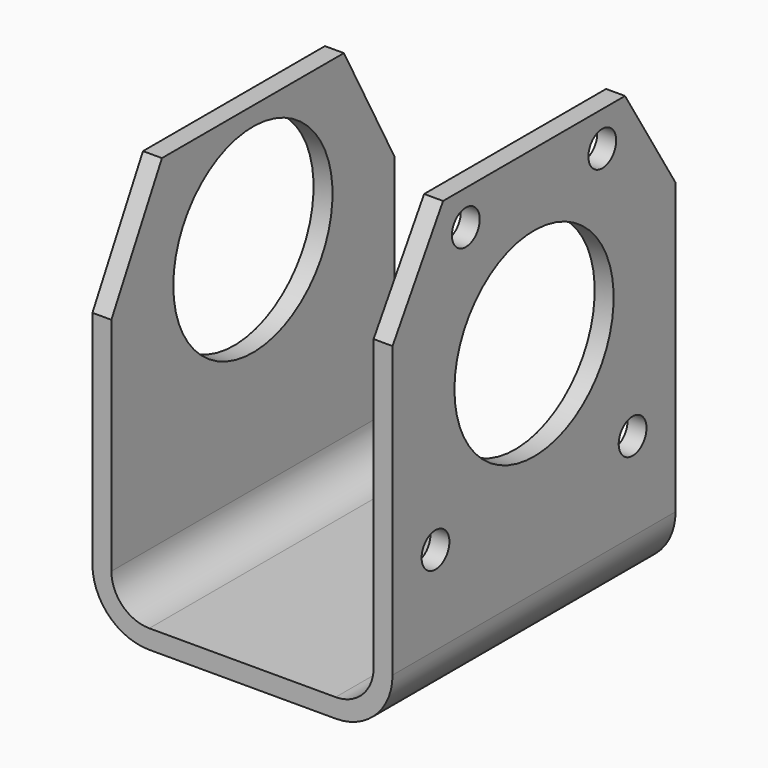
from build123d import *

# Parameters (mm, degrees)
F0_W      = 12
F0_H      = 238
F0_H_2    = 12
F0_W_2    = 166
F0_H_3    = 272
F1_DEPTH  = 224
F2_R      = 24
F3_R      = 36
F5_DEPTH  = 12
F7_DEPTH  = 12
F8_R      = 63
F9_DEPTH  = 190
F10_R     = 11
F11_DEPTH = 25


with BuildPart() as f1:
    # F0 (on Front) → F1 (new body)
    with BuildSketch(Plane.XZ):
        with Locations((-29.668833, 69.198049)):
            Rectangle(F0_W, F0_H)
        with Locations((-29.668833, -55.801951)):
            Rectangle(F0_W, F0_H_2)
        with Locations((59.331167, -55.801951)):
            Rectangle(F0_W_2, F0_H_2)
        with Locations((148.331167, 86.198049)):
            Rectangle(F0_W, F0_H_3)
        with Locations((148.331167, -55.801951)):
            Rectangle(F0_W, F0_H_2)
    extrude(amount=F1_DEPTH)

    # F2
    f2_edges = [f1.edges().sort_by_distance(p)[0] for p in [
        (-23.668833, -112, -49.801951),
        (142.331167, -112, -49.801951),
    ]]
    fillet(f2_edges, radius=F2_R)

    # F3
    f3_edges = [f1.edges().sort_by_distance(p)[0] for p in [
        (154.331167, -112, -61.801951),
        (-35.668833, -112, -61.801951),
    ]]
    fillet(f3_edges, radius=F3_R)

    # F4 (on face) → F5 (cut)
    with BuildSketch(Plane(origin=(-35.668833, 0, 0), x_dir=(0, -1, 0), z_dir=(-1, 0, 0))):
        Polygon((0, 114.333307), (40, 188.198049), (0, 188.198049), align=None)
        Polygon((224, 188.198049), (184, 188.198049), (224, 114.333307), align=None)
    extrude(amount=-F5_DEPTH, mode=Mode.SUBTRACT)

    # F6 (on face) → F7 (cut)
    with BuildSketch(Plane.YZ.offset(154.331167)):
        Polygon((-224, 222.198049), (-224, 157.576071), (-184, 222.198049), align=None)
        Polygon((0, 222.198049), (-40, 222.198049), (0, 157.576071), align=None)
    extrude(amount=-F7_DEPTH, mode=Mode.SUBTRACT)

    # F8 (on face) → F9 (cut)
    with BuildSketch(Plane(origin=(-35.668833, 0, 0), x_dir=(0, -1, 0), z_dir=(-1, 0, 0))):
        with Locations((112, 113.482498)):
            Circle(F8_R)
    extrude(amount=-F9_DEPTH, mode=Mode.SUBTRACT)

    # F10 (on face) → F11 (cut)
    with BuildSketch(Plane.YZ.offset(154.331167)):
        with Locations((-166, 200.198049)):
            Circle(F10_R)
        with Locations((-58, 200.198049)):
            Circle(F10_R)
        with Locations((-34, 30.198049)):
            Circle(F10_R)
        with Locations((-190, 30.198049)):
            Circle(F10_R)
    extrude(amount=-F11_DEPTH, mode=Mode.SUBTRACT)


solid = f1.part
